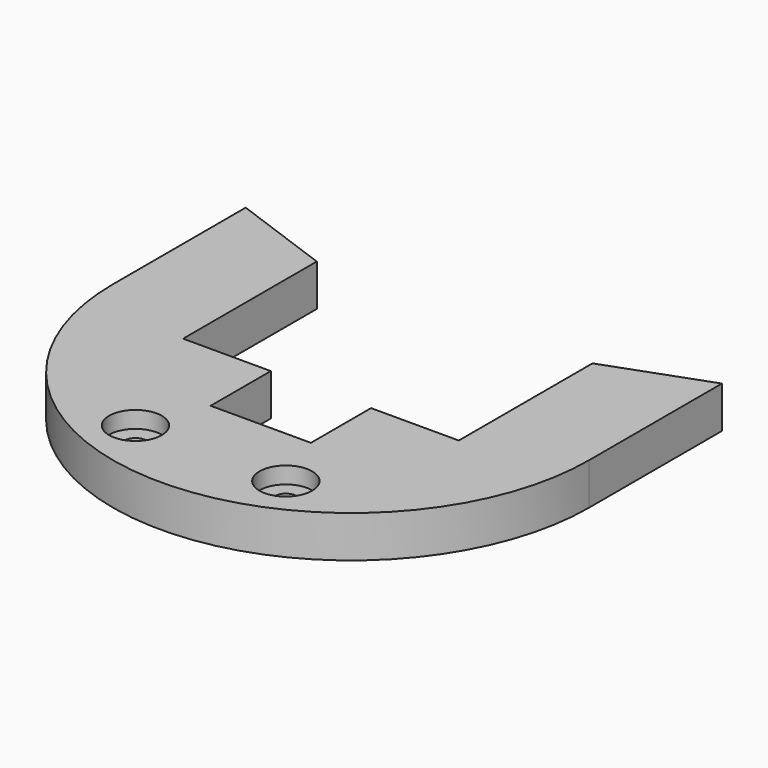
from build123d import *

# Parameters (mm, degrees)
PAD007_DEPTH    = 5
POCKET016_DEPTH = 5
SKETCH028_R     = 3.15
POCKET_DEPTH    = 2
SKETCH041_R     = 1.3
POCKET024_DEPTH = 3


with BuildPart() as part:
    # Sketch025 → Pad007 (new body)
    with BuildSketch(Plane.XY):
        with BuildLine():
            Line((0, 28.5), (0, 57))
            Line((0, 57), (57, 57))
            Line((57, 57), (57, 28.5))
            ThreePointArc((0, 28.5), (28.5, 0), (57, 28.5))
        make_face()
    extrude(amount=PAD007_DEPTH)

    # Sketch026 (on Face6 of Pad007) → Pocket016 (cut)
    with BuildSketch(Plane.XY.offset(5)):
        Polygon((22.5, 15), (34.5, 15), (34.5, 24), (45, 24), (45, 44), (80.717206, 57), (45, 57), (12, 57), (-23.717206, 57), (12, 44), (12, 24), (22.5, 24), align=None)
    extrude(amount=-POCKET016_DEPTH, mode=Mode.SUBTRACT)

    # Sketch028 (on Face4 of Pocket016) → Pocket (cut)
    with BuildSketch(Plane.XY.offset(5)):
        with Locations((19.5, 7.5)):
            Circle(SKETCH028_R)
        with Locations((37.5, 7.5)):
            Circle(SKETCH028_R)
    extrude(amount=-POCKET_DEPTH, mode=Mode.SUBTRACT)

    # Sketch041 (on Face18 of Pocket) → Pocket024 (cut)
    with BuildSketch(Plane.XY.offset(3)):
        with Locations((19.5, 7.5)):
            Circle(SKETCH041_R)
        with Locations((37.5, 7.5)):
            Circle(SKETCH041_R)
    extrude(amount=-POCKET024_DEPTH, mode=Mode.SUBTRACT)


solid = part.part
